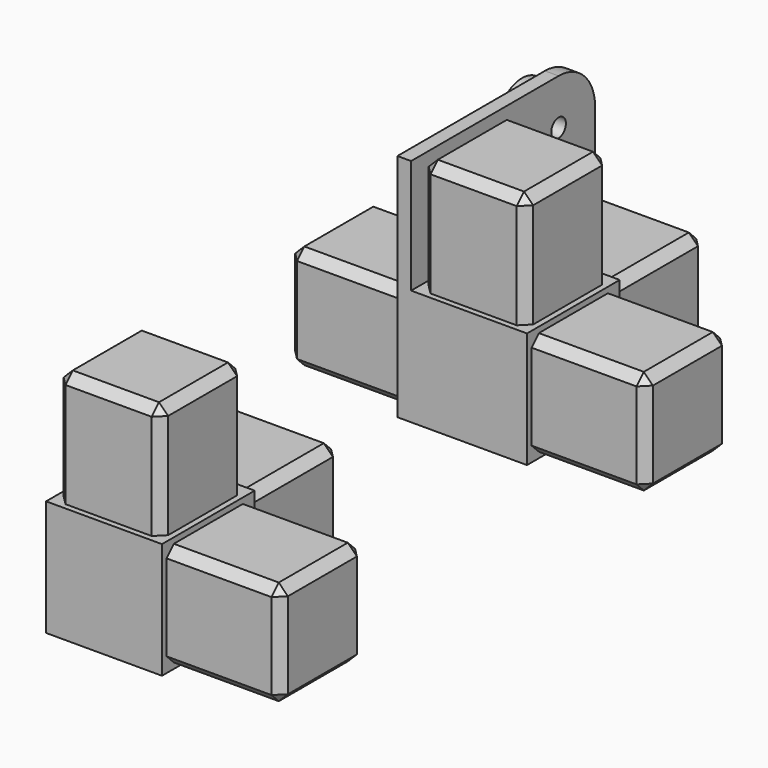
from build123d import *

# Parameters (mm, degrees)
F0_W      = 25.4
F0_H      = 25.4
F1_DEPTH  = 25.4
F2_W      = 22.9
F2_H      = 22.9
F3_DEPTH  = 25
F4_W      = 22.9
F4_H      = 22.9
F5_DEPTH  = 25
F6_W      = 22.9
F6_H      = 22.9
F7_DEPTH  = 25
F8_SIZE   = 2
F12_W     = 25.4
F12_H     = 25.4
F12_R     = 2.15
F12_R_2   = 7
F13_DEPTH = 3
F12_R_3   = 2
F14_DEPTH = 8
F15_W     = 22.9
F15_H     = 22.9
F16_DEPTH = 25
F17_SIZE  = 2


with BuildPart() as f1:
    # F0 (on Top) → F1 (new body)
    with BuildSketch(Plane.XY):
        with Locations((12.7, 12.7)):
            Rectangle(F0_W, F0_H)
    extrude(amount=F1_DEPTH)

    # F2 (on face) → F3 (join)
    with BuildSketch(Plane.XY.offset(25.4)):
        with Locations((12.7, 12.7)):
            Rectangle(F2_W, F2_H)
    extrude(amount=F3_DEPTH)

    # F4 (on face) → F5 (join)
    with BuildSketch(Plane.YZ.offset(25.4)):
        with Locations((12.7, 12.7)):
            Rectangle(F4_W, F4_H)
    extrude(amount=F5_DEPTH)

    # F6 (on face) → F7 (join)
    with BuildSketch(Plane(origin=(0, 25.4, 0), x_dir=(-1, 0, 0), z_dir=(0, 1, 0))):
        with Locations((-12.7, 12.7)):
            Rectangle(F6_W, F6_H)
    extrude(amount=F7_DEPTH)

    # F8
    f8_edges = [f1.edges().sort_by_distance(p)[0] for p in [
        (12.7, 24.15, 50.4),
        (1.25, 12.7, 50.4),
        (12.7, 1.25, 50.4),
        (24.15, 12.7, 50.4),
        (1.25, 1.25, 37.9),
        (24.15, 1.25, 37.9),
        (1.25, 24.15, 37.9),
        (24.15, 24.15, 37.9),
        (37.9, 1.25, 1.25),
        (37.9, 1.25, 24.15),
        (50.4, 12.7, 24.15),
        (50.4, 1.25, 12.7),
        (50.4, 12.7, 1.25),
        (50.4, 24.15, 12.7),
        (37.9, 24.15, 1.25),
        (37.9, 24.15, 24.15),
        (1.25, 50.4, 12.7),
        (12.7, 50.4, 24.15),
        (24.15, 50.4, 12.7),
        (12.7, 50.4, 1.25),
        (24.15, 37.9, 24.15),
        (1.25, 37.9, 24.15),
        (24.15, 37.9, 1.25),
        (1.25, 37.9, 1.25),
    ]]
    chamfer(f8_edges, length=F8_SIZE)


with BuildPart() as f9_1:
    # F9: copy of F1
    add(f1.part.moved(Location((150, 0, 0))))


with BuildPart() as f11_1:
    # F11: copy of F1
    add(f1.part.moved(Location((0, 100, 0))))

    # F12 (on face) → F13 (join)
    with BuildSketch(Plane(origin=(0, 0, 0), x_dir=(0, -1, 0), z_dir=(-1, 0, 0))):
        with Locations((-112.7, 12.7)):
            Rectangle(F12_W, F12_H)
        with BuildLine():
            Line((-150.4, 0), (-125.4, 0))
            Line((-125.4, 0), (-125.4, 25.4))
            Line((-125.4, 25.4), (-100, 25.4))
            Line((-100, 25.4), (-100, 50.4))
            Line((-100, 50.4), (-140.4, 50.4))
            ThreePointArc((-140.4, 50.4), (-147.4710678119, 47.4710678119), (-150.4, 40.4))
            Line((-150.4, 40.4), (-150.4, 0))
        make_face()
        with Locations((-137.9, 12.5)):
            Circle(F12_R, mode=Mode.SUBTRACT)
        with Locations((-140.4, 40.4)):
            Circle(F12_R_2, mode=Mode.SUBTRACT)
        with Locations((-112.5, 37.9)):
            Circle(F12_R, mode=Mode.SUBTRACT)
    extrude(amount=F13_DEPTH)

    # F12 (on face) → F14 (join)
    with BuildSketch(Plane(origin=(0, 0, 0), x_dir=(0, -1, 0), z_dir=(-1, 0, 0))):
        with Locations((-140.4, 40.4)):
            Circle(F12_R_2)
        with Locations((-140.4, 40.4)):
            Circle(F12_R_3, mode=Mode.SUBTRACT)
    extrude(amount=F14_DEPTH)

    # F15 (on face) → F16 (join)
    with BuildSketch(Plane(origin=(-3, 0, 0), x_dir=(0, -1, 0), z_dir=(-1, 0, 0))):
        with Locations((-112.7, 12.7)):
            Rectangle(F15_W, F15_H)
    extrude(amount=F16_DEPTH)

    # F17
    f17_edges = [f11_1.edges().sort_by_distance(p)[0] for p in [
        (-15.5, 124.15, 24.15),
        (-15.5, 124.15, 1.25),
        (-28, 124.15, 12.7),
        (-28, 101.25, 12.7),
        (-28, 112.7, 24.15),
        (-28, 112.7, 1.25),
        (-15.5, 101.25, 24.15),
        (-15.5, 101.25, 1.25),
    ]]
    chamfer(f17_edges, length=F17_SIZE)


solid = Compound([f1.part, f11_1.part])
